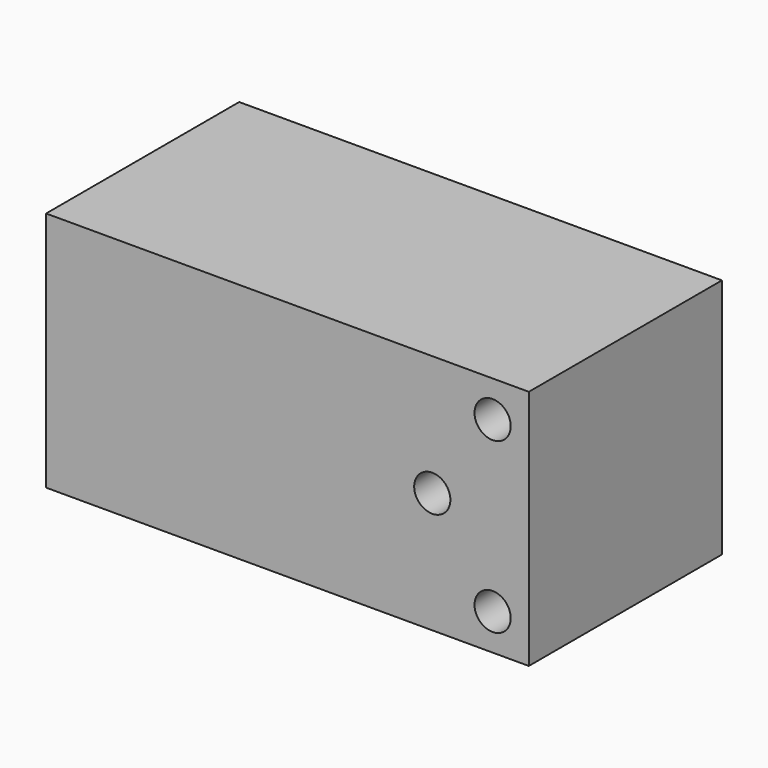
from build123d import *

# Parameters (mm, degrees)
F0_W          = 40
F0_H          = 20
F1_DEPTH      = 10
F1_DEPTH_BACK = 10
F2_R          = 6.25
F3_DEPTH      = 34
F4_R          = 1.5
F5_DEPTH      = 20.001
F6_R          = 1.5
F7_DEPTH      = 4.2727804813


with BuildPart() as f1:
    # F0 (on Front) → F1 (new body, two sides)
    with BuildSketch(Plane.XZ) as f1_sk:
        Rectangle(F0_W, F0_H)
    extrude(amount=F1_DEPTH)
    extrude(f1_sk.sketch, amount=-F1_DEPTH_BACK)

    # F2 (on face) → F3 (cut)
    with BuildSketch(Plane(origin=(-20, 0, 0), x_dir=(0, -1, 0), z_dir=(-1, 0, 0))):
        with Locations((0, 1)):
            Circle(F2_R)
    extrude(amount=-F3_DEPTH, mode=Mode.SUBTRACT)

    # F4 (on face) → F5 (cut, through all)
    with BuildSketch(Plane.XZ.offset(10)):
        with Locations((17, 7)):
            Circle(F4_R)
        with Locations((17, -7)):
            Circle(F4_R)
    extrude(amount=-F5_DEPTH, mode=Mode.SUBTRACT)

    # F6 (on face) → F7 (cut, through all)
    with BuildSketch(Plane.XZ.offset(10)):
        with Locations((12, 0)):
            Circle(F6_R)
    extrude(amount=-F7_DEPTH, mode=Mode.SUBTRACT)


solid = f1.part
